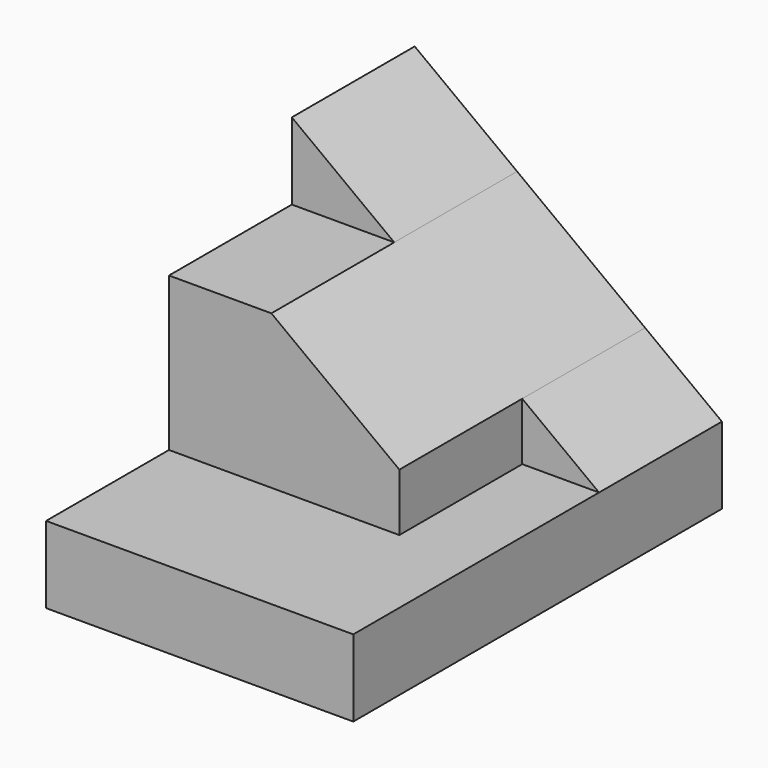
from build123d import *

# Parameters (mm, degrees)
F1_DEPTH = 38.1
F2_DEPTH = 25.4
F3_DEPTH = 12.7


with BuildPart() as f1:
    # F0 (on Front) → F1 (new body)
    with BuildSketch(Plane.XZ):
        Polygon((0, 6.35), (0, 0), (25.4, 0), (25.4, 6.35), (19.05, 6.35), align=None)
    extrude(amount=F1_DEPTH)

    # F0 (on Front) → F2 (join)
    with BuildSketch(Plane.XZ):
        Polygon((0, 19.05), (0, 6.35), (19.05, 6.35), (19.05, 11.1125), (8.466667, 19.05), align=None)
    extrude(amount=F2_DEPTH)

    # F0 (on Front) → F3 (join)
    with BuildSketch(Plane.XZ):
        Polygon((19.05, 11.1125), (19.05, 6.35), (25.4, 6.35), align=None)
        Polygon((0, 25.4), (0, 19.05), (8.466667, 19.05), align=None)
    extrude(amount=F3_DEPTH)


solid = f1.part
